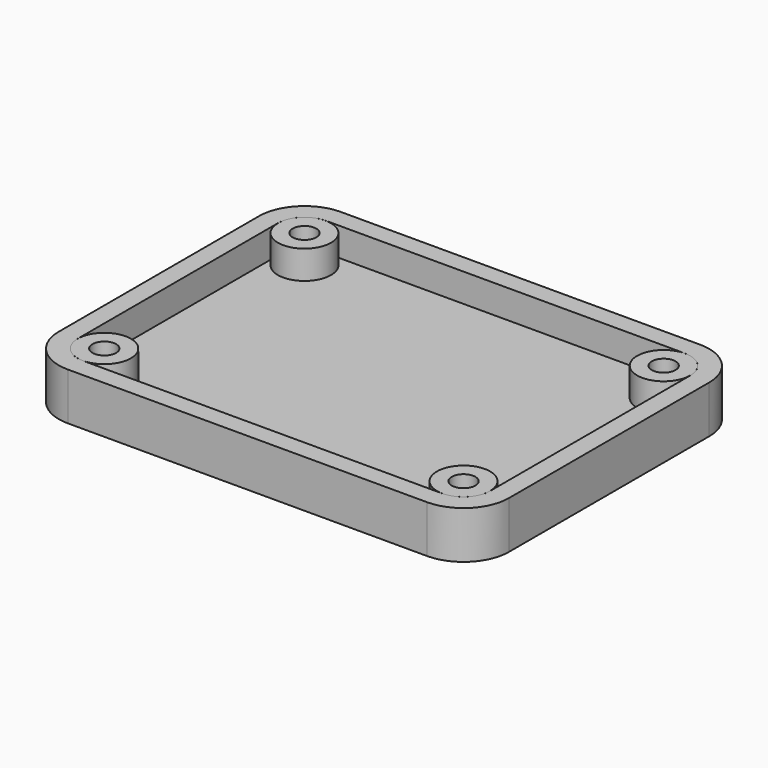
from build123d import *

# Parameters (mm, degrees)
SKETCH001_R      = 1.5875
EXTRUDE001_DEPTH = 7.62
SKETCH_R         = 3.556
EXTRUDE_DEPTH    = 3.81
BOX_W            = 60.325
BOX_H            = 45.72
BOX_DEPTH        = 6.35
THICKNESS_T      = -2.54
FILLET_R         = 3.56
FILLET001_R      = 6.1


with BuildPart() as extrude001:
    # Sketch001 (on Face9 of Extrude) → Extrude001 (new body)
    with BuildSketch(Plane.XY.offset(6.35)):
        with Locations((6.1, 39.62)):
            Circle(SKETCH001_R)
        with Locations((54.225, 39.62)):
            Circle(SKETCH001_R)
        with Locations((54.225, 6.1)):
            Circle(SKETCH001_R)
        with Locations((6.1, 6.1)):
            Circle(SKETCH001_R)
    extrude(amount=-EXTRUDE001_DEPTH)


with BuildPart() as extrude_body:
    # Sketch (on Face19 of Fillet001) → Extrude (new body)
    with BuildSketch(Plane.XY.offset(2.54)):
        with Locations((6.1, 39.62)):
            Circle(SKETCH_R)
        with Locations((54.225, 39.62)):
            Circle(SKETCH_R)
        with Locations((54.225, 6.1)):
            Circle(SKETCH_R)
        with Locations((6.1, 6.1)):
            Circle(SKETCH_R)
    extrude(amount=EXTRUDE_DEPTH)


with BuildPart() as cut:
    # Box → Box (new body)
    with BuildSketch(Plane.XY):
        with Locations((30.1625, 22.86)):
            Rectangle(BOX_W, BOX_H)
    extrude(amount=BOX_DEPTH)

    # Thickness
    thickness_openings = [cut.faces().sort_by_distance(p)[0] for p in [
        (30.1625, 22.86, 6.35),
    ]]
    offset(amount=THICKNESS_T, openings=thickness_openings, kind=Kind.INTERSECTION)

    # Fillet
    fillet_edges = [cut.edges().sort_by_distance(p)[0] for p in [
        (2.54, 2.54, 4.445),
        (2.54, 43.18, 4.445),
        (57.785, 2.54, 4.445),
        (57.785, 43.18, 4.445),
    ]]
    fillet(fillet_edges, radius=FILLET_R)

    # Fillet001
    fillet001_edges = [cut.edges().sort_by_distance(p)[0] for p in [
        (0, 0, 3.175),
        (0, 45.72, 3.175),
        (60.325, 0, 3.175),
        (60.325, 45.72, 3.175),
    ]]
    fillet(fillet001_edges, radius=FILLET001_R)

    # Fusion: union Extrude body
    add(extrude_body.part)

    # Cut: cut Extrude001
    add(extrude001.part, mode=Mode.SUBTRACT)


solid = cut.part
